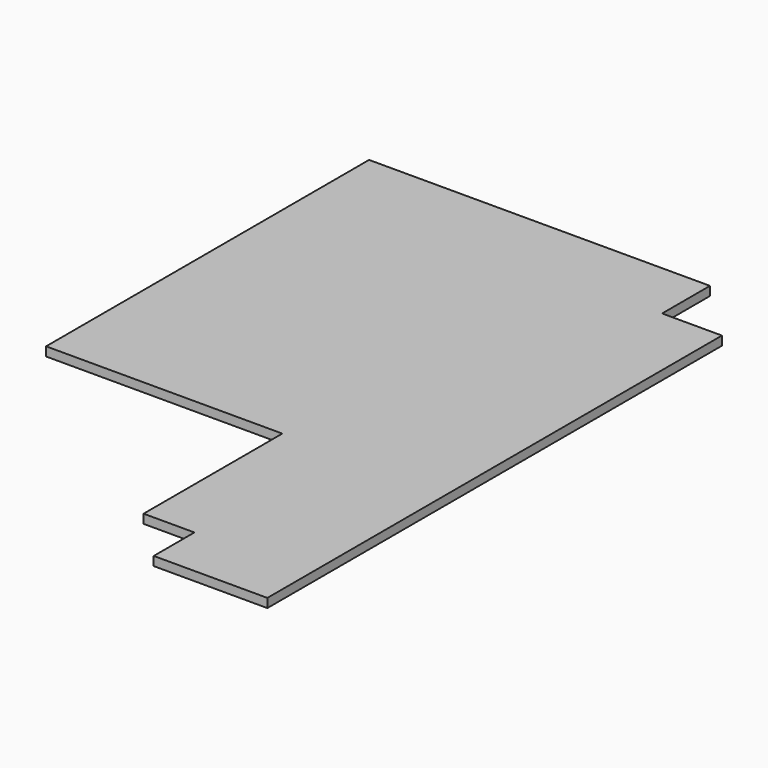
from build123d import *

# Parameters (mm, degrees)
PAD_DEPTH = 3


with BuildPart() as part:
    # Sketch → Pad (new body)
    with BuildSketch(Plane.XY):
        Polygon((155, 15), (155, 205), (135, 205), (135, 225), (21, 225), (21, 90), (100, 90), (100, 32), (117, 32), (117, 15), align=None)
    extrude(amount=PAD_DEPTH)


solid = part.part
